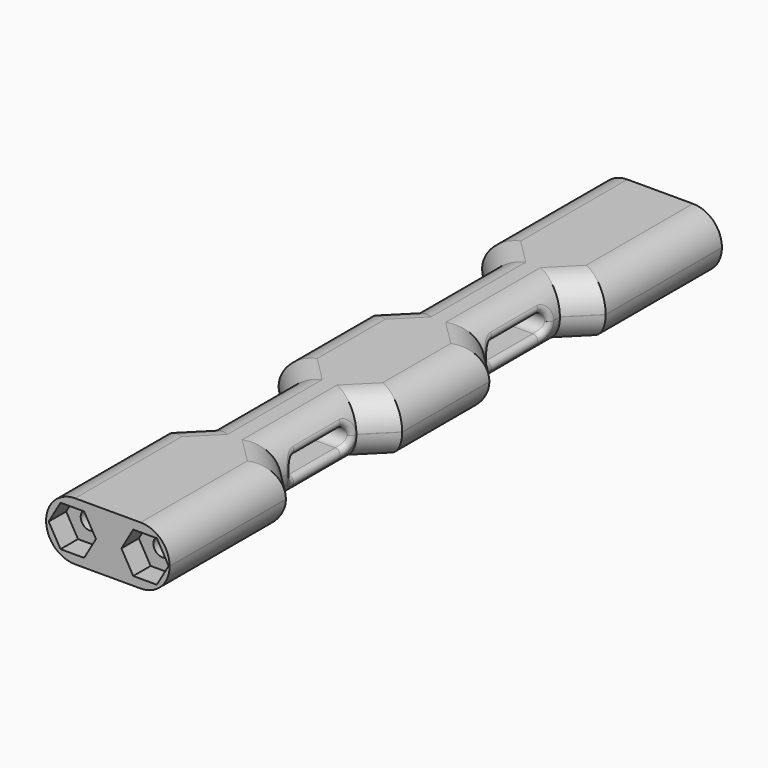
from build123d import *

# Parameters (mm, degrees)
PAD_DEPTH         = 8
FILLET_R          = 3.99
POCKET_DEPTH      = 0.001
POCKET_DEPTH_BACK = 124.885626
FILLET001_R       = 0.7
POCKET001_DEPTH   = 3
POCKET002_DEPTH   = 5
SKETCH004_R       = 1.25
POCKET003_DEPTH   = 5
SKETCH005_R       = 1.25
POCKET004_DEPTH   = 5


with BuildPart() as part:
    # Sketch → Pad (new body)
    with BuildSketch(Plane.XY):
        Polygon((107.884626, 47.5), (107.884626, 27.5), (111.384626, 24), (111.384626, 11), (107.884626, 7.5), (107.884626, -7.5), (111.384626, -11), (111.384626, -24), (107.884626, -27.5), (107.884626, -47.5), (124.884626, -47.5), (124.884626, -27.5), (121.384626, -24), (121.384626, -11), (124.884626, -7.5), (124.884626, 7.5), (121.384626, 11), (121.384626, 24), (124.884626, 27.5), (124.884626, 47.5), align=None)
    extrude(amount=PAD_DEPTH)

    # Fillet
    fillet_edges = [part.edges().sort_by_distance(p)[0] for p in [
        (124.884626, 0, 8),
        (123.134626, -9.25, 8),
        (121.384626, -17.5, 8),
        (123.134626, -25.75, 8),
        (124.884626, -37.5, 8),
        (107.884626, -37.5, 8),
        (109.634626, -25.75, 8),
        (111.384626, -17.5, 8),
        (109.634626, -9.25, 8),
        (107.884626, 0, 8),
        (109.634626, 9.25, 8),
        (111.384626, 17.5, 8),
        (109.634626, 25.75, 8),
        (107.884626, 37.5, 8),
        (124.884626, 37.5, 8),
        (121.384626, 17.5, 8),
        (123.134626, 25.75, 8),
        (121.384626, 17.5, 0),
        (123.134626, 25.75, 0),
        (124.884626, 37.5, 0),
        (107.884626, 37.5, 0),
        (123.134626, 9.25, 8),
        (123.134626, 9.25, 0),
        (124.884626, 0, 0),
        (123.134626, -9.25, 0),
        (121.384626, -17.5, 0),
        (123.134626, -25.75, 0),
        (124.884626, -37.5, 0),
        (107.884626, -37.5, 0),
        (109.634626, -25.75, 0),
        (111.384626, -17.5, 0),
        (109.634626, -9.25, 0),
        (107.884626, 0, 0),
        (109.634626, 9.25, 0),
        (111.384626, 17.5, 0),
        (109.634626, 25.75, 0),
    ]]
    fillet(fillet_edges, radius=FILLET_R)

    # Sketch001 → Pocket (cut, two sides)
    with BuildSketch(Plane.YZ) as pocket_sk:
        with BuildLine():
            ThreePointArc((-21, 5.25), (-22.25, 4), (-21, 2.75))
            Line((-21, 2.75), (-13, 2.75))
            ThreePointArc((-13, 2.75), (-11.75, 4), (-13, 5.25))
            Line((-13, 5.25), (-21, 5.25))
        make_face()
        with BuildLine():
            ThreePointArc((13, 5.25), (11.75, 4), (13, 2.75))
            Line((13, 2.75), (21, 2.75))
            ThreePointArc((21, 2.75), (22.25, 4), (21, 5.25))
            Line((21, 5.25), (13, 5.25))
        make_face()
    extrude(amount=-POCKET_DEPTH, mode=Mode.SUBTRACT)
    extrude(pocket_sk.sketch, amount=POCKET_DEPTH_BACK, mode=Mode.SUBTRACT)

    # Fillet001
    fillet001_edges = [part.edges().sort_by_distance(p)[0] for p in [
        (121.187053, -17, 5.25),
        (121.28694, -12.119742, 4.887494),
        (111.482313, -12.119742, 4.887494),
        (111.5822, -17, 5.25),
        (111.482313, -21.880258, 4.887494),
        (121.28694, -21.880258, 4.887494),
        (121.187053, 17, 5.25),
        (111.5822, 17, 5.25),
        (111.482313, 21.880258, 4.887494),
        (121.28694, 21.880258, 4.887494),
        (121.28694, 12.119742, 4.887494),
        (111.482313, 12.119742, 4.887494),
        (121.28694, -21.880258, 3.112506),
        (121.187053, -17, 2.75),
        (121.28694, -12.119742, 3.112506),
        (121.28694, 12.119742, 3.112506),
        (121.187053, 17, 2.75),
        (121.28694, 21.880258, 3.112506),
        (111.5822, -17, 2.75),
        (111.482313, -12.119742, 3.112506),
        (111.482313, -21.880258, 3.112506),
        (111.5822, 17, 2.75),
        (111.482313, 12.119742, 3.112506),
        (111.482313, 21.880258, 3.112506),
    ]]
    fillet(fillet001_edges, radius=FILLET001_R)

    # Sketch002 → Pocket001 (cut)
    with BuildSketch(Plane(origin=(116.5, -47.5, 0), x_dir=(1, 0, 0), z_dir=(0, -1, 0))):
        Polygon((-3.375, 6.814583), (-6.625, 6.814583), (-8.25, 4), (-6.625, 1.185417), (-3.375, 1.185417), (-1.75, 4), align=None)
        Polygon((3.375, 6.814583), (1.75, 4), (3.375, 1.185417), (6.625, 1.185417), (8.25, 4), (6.625, 6.814583), align=None)
    extrude(amount=-POCKET001_DEPTH, mode=Mode.SUBTRACT)

    # Sketch003 → Pocket002 (cut)
    with BuildSketch(Plane(origin=(116.5, 47.5, 0), x_dir=(1, 0, 0), z_dir=(0, -1, 0))):
        Polygon((-3.375, 6.814583), (-6.625, 6.814583), (-8.25, 4), (-6.625, 1.185417), (-3.375, 1.185417), (-1.75, 4), align=None)
        Polygon((3.375, 6.814583), (1.75, 4), (3.375, 1.185417), (6.625, 1.185417), (8.25, 4), (6.625, 6.814583), align=None)
    extrude(amount=POCKET002_DEPTH, mode=Mode.SUBTRACT)

    # Sketch004 → Pocket003 (cut)
    with BuildSketch(Plane(origin=(116.5, 42.5, 0), x_dir=(1, 0, 0), z_dir=(0, -1, 0))):
        with Locations((-5, 4)):
            Circle(SKETCH004_R)
        with Locations((5, 4)):
            Circle(SKETCH004_R)
    extrude(amount=POCKET003_DEPTH, mode=Mode.SUBTRACT)

    # Sketch005 (on Pocket) → Pocket004 (cut)
    with BuildSketch(Plane(origin=(116.5, -44.5, 0), x_dir=(1, 0, 0), z_dir=(0, -1, 0))):
        with Locations((-5, 4)):
            Circle(SKETCH005_R)
        with Locations((5, 4)):
            Circle(SKETCH005_R)
    extrude(amount=-POCKET004_DEPTH, mode=Mode.SUBTRACT)


solid = part.part
